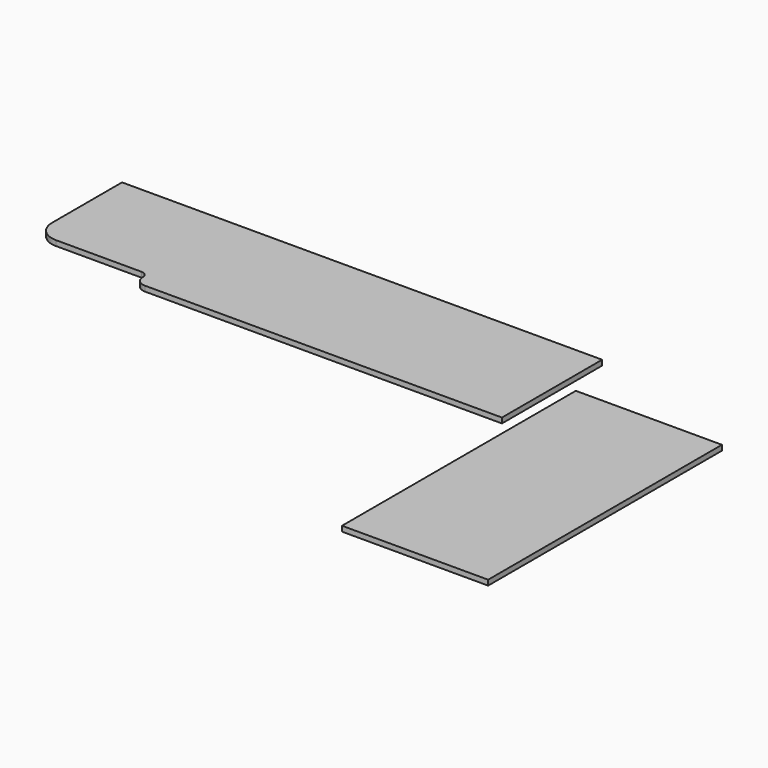
from build123d import *

# Parameters (mm, degrees)
F2_DEPTH = 25
F1_W     = 700
F1_H     = 1400
F3_DEPTH = 25


with BuildPart() as f2:
    # F0 (on Top) → F2 (new body)
    with BuildSketch(Plane.XY):
        with BuildLine():
            Line((0, 699.300214), (-2300, 699.300214))
            Line((-2300, 699.300214), (-2300, 279.300214))
            ThreePointArc((-2300, 279.300214), (-2270.710678, 208.589536), (-2200, 179.300214))
            Line((-2200, 179.300214), (-1790, 179.300214))
            ThreePointArc((-1790, 179.300214), (-1768.786797, 170.513418), (-1760, 149.300214))
            ThreePointArc((-1760, 149.300214), (-1745.355339, 113.944875), (-1710, 99.300214))
            Line((-1710, 99.300214), (0, 99.300214))
            Line((0, 99.300214), (0, 699.300214))
        make_face()
    extrude(amount=F2_DEPTH)


with BuildPart() as f3:
    # F1 (on Top) → F3 (new body)
    with BuildSketch(Plane.XY):
        with Locations((430.379018, -258.861389)):
            Rectangle(F1_W, F1_H)
    extrude(amount=F3_DEPTH)


solid = Compound([f2.part, f3.part])
